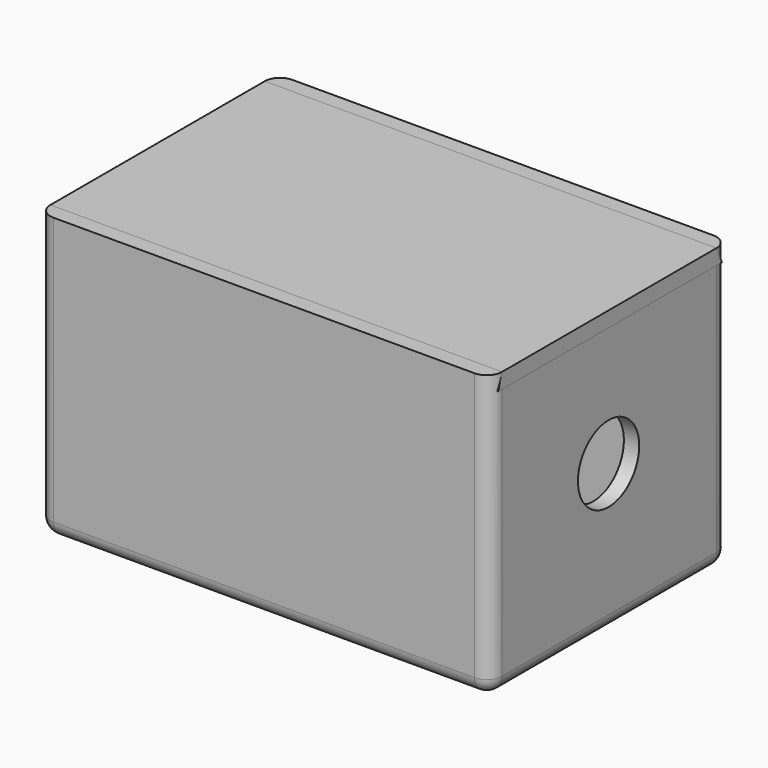
from build123d import *

# Parameters (mm, degrees)
EXTRUDE002_DEPTH = 59
SKETCH001_R      = 5
EXTRUDE001_DEPTH = 2.25
SKETCH_W         = 1.491444
SKETCH_H         = 35
EXTRUDE_DEPTH    = 10
BOX_W            = 55
BOX_H            = 35
BOX_DEPTH        = 35
THICKNESS_T      = 2


with BuildPart() as extrude002:
    # Sketch002 (on Face18 of Cut) → Extrude002 (new body)
    with BuildSketch(Plane.YZ.offset(57)):
        Polygon((-0.633947, 33), (35.88865, 33), (35, 35), (0, 35), align=None)
    extrude(amount=-EXTRUDE002_DEPTH)


with BuildPart() as extrude001:
    # Sketch001 (on Face17 of Fusion) → Extrude001 (new body, symmetric)
    with BuildSketch(Plane.YZ.offset(57)):
        with Locations((17.383352, 17.383352)):
            Circle(SKETCH001_R)
    extrude(amount=EXTRUDE001_DEPTH, both=True)


with BuildPart() as extrude_body:
    # Sketch (on Face5 of Thickness) → Extrude (new body)
    with BuildSketch(Plane.XY):
        with Locations((29.400991, 17.5)):
            Rectangle(SKETCH_W, SKETCH_H)
    extrude(amount=EXTRUDE_DEPTH)


with BuildPart() as cut001:
    # Box → Box (new body)
    with BuildSketch(Plane.XY):
        with Locations((27.5, 17.5)):
            Rectangle(BOX_W, BOX_H)
    extrude(amount=BOX_DEPTH)

    # Thickness
    thickness_openings = [cut001.faces().sort_by_distance(p)[0] for p in [
        (27.5, 17.5, 35),
    ]]
    offset(amount=THICKNESS_T, openings=thickness_openings)

    # Fusion: union Extrude body
    add(extrude_body.part)

    # Cut: cut Extrude001
    add(extrude001.part, mode=Mode.SUBTRACT)

    # Cut001: cut Extrude002
    add(extrude002.part, mode=Mode.SUBTRACT)


with BuildPart() as cover:
    # Clone base: copy of Extrude002
    add(extrude002.part)


solid = Compound([cut001.part, cover.part])
